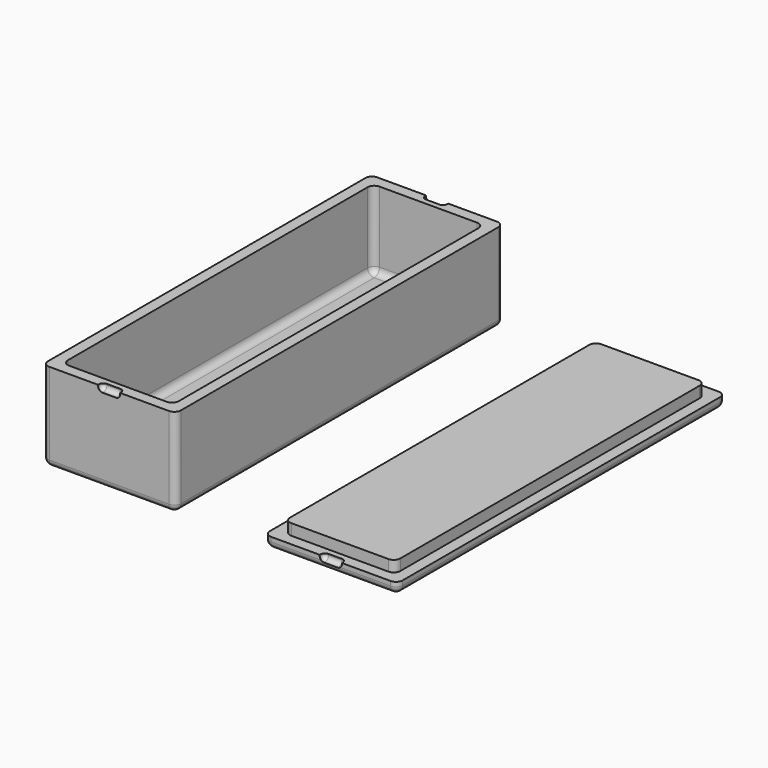
from build123d import *

# Parameters (mm, degrees)
SKETCH001_W     = 60
SKETCH001_H     = 185
PAD_DEPTH       = 40
SKETCH_W        = 50
SKETCH_H        = 175
POCKET_DEPTH    = 35
FILLET_R        = 3
FILLET001_R     = 3
SKETCH002_W     = 10
SKETCH002_H     = 5
POCKET001_DEPTH = 2.5
FILLET002_R     = 2
SKETCH003_W     = 10
SKETCH003_H     = 5
POCKET002_DEPTH = 2.5
FILLET003_R     = 2
SKETCH004_W     = 60
SKETCH004_H     = 185
PAD001_DEPTH    = 5
SKETCH005_W     = 49.8
SKETCH005_H     = 174.8
PAD002_DEPTH    = 5
FILLET004_R     = 3
FILLET005_R     = 3
SKETCH006_W     = 10
SKETCH006_H     = 5
POCKET003_DEPTH = 2.5
FILLET006_R     = 2
SKETCH007_W     = 10
SKETCH007_H     = 5
POCKET004_DEPTH = 2.5
FILLET007_R     = 2


with BuildPart() as box:
    # Sketch001 → Pad (new body)
    with BuildSketch(Plane.XY):
        Rectangle(SKETCH001_W, SKETCH001_H)
    extrude(amount=PAD_DEPTH)

    # Sketch (on Face6 of Pad) → Pocket (cut)
    with BuildSketch(Plane.XY.offset(40)):
        Rectangle(SKETCH_W, SKETCH_H)
    extrude(amount=-POCKET_DEPTH, mode=Mode.SUBTRACT)

    # Fillet
    fillet_edges = [box.edges().sort_by_distance(p)[0] for p in [
        (30, -92.5, 20),
        (30, 92.5, 20),
        (30, 0, 0),
        (0, 92.5, 0),
        (-30, 92.5, 20),
        (-30, 0, 0),
        (-30, -92.5, 20),
        (0, -92.5, 0),
    ]]
    fillet(fillet_edges, radius=FILLET_R)

    # Fillet001
    fillet001_edges = [box.edges().sort_by_distance(p)[0] for p in [
        (0, 87.5, 5),
        (-25, 0, 5),
        (0, -87.5, 5),
        (25, 0, 5),
        (-25, 87.5, 22.5),
        (25, 87.5, 22.5),
        (-25, -87.5, 22.5),
        (25, -87.5, 22.5),
    ]]
    fillet(fillet001_edges, radius=FILLET001_R)

    # Sketch002 (on Face14 of Fillet001) → Pocket001 (cut)
    with BuildSketch(Plane.XZ.offset(92.5)):
        with Locations((0, 40)):
            Rectangle(SKETCH002_W, SKETCH002_H)
    extrude(amount=-POCKET001_DEPTH, mode=Mode.SUBTRACT)

    # Fillet002
    fillet002_edges = [box.edges().sort_by_distance(p)[0] for p in [
        (-5, -90, 38.75),
        (-5, -91.25, 37.5),
        (0, -90, 37.5),
        (5, -90, 38.75),
        (5, -91.25, 37.5),
    ]]
    fillet(fillet002_edges, radius=FILLET002_R)

    # Sketch003 (on Face11 of Fillet002) → Pocket002 (cut)
    with BuildSketch(Plane(origin=(0, 92.5, 0), x_dir=(-1, 0, 0), z_dir=(0, 1, 0))):
        with Locations((0, 40)):
            Rectangle(SKETCH003_W, SKETCH003_H)
    extrude(amount=-POCKET002_DEPTH, mode=Mode.SUBTRACT)

    # Fillet003
    fillet003_edges = [box.edges().sort_by_distance(p)[0] for p in [
        (5, 91.25, 37.5),
        (5, 90, 38.75),
        (0, 90, 37.5),
        (-5, 90, 38.75),
        (-5, 91.25, 37.5),
    ]]
    fillet(fillet003_edges, radius=FILLET003_R)


with BuildPart() as lid:
    # Sketch004 → Pad001 (new body)
    with BuildSketch(Plane.XY):
        with Locations((100, 0)):
            Rectangle(SKETCH004_W, SKETCH004_H)
    extrude(amount=PAD001_DEPTH)

    # Sketch005 (on Face6 of Pad001) → Pad002 (join)
    with BuildSketch(Plane.XY.offset(5)):
        with Locations((100, 0)):
            Rectangle(SKETCH005_W, SKETCH005_H)
    extrude(amount=PAD002_DEPTH)

    # Fillet004
    fillet004_edges = [lid.edges().sort_by_distance(p)[0] for p in [
        (75.1, -87.4, 7.5),
        (124.9, -87.4, 7.5),
        (124.9, 87.4, 7.5),
        (75.1, 87.4, 7.5),
    ]]
    fillet(fillet004_edges, radius=FILLET004_R)

    # Fillet005
    fillet005_edges = [lid.edges().sort_by_distance(p)[0] for p in [
        (130, 92.5, 2.5),
        (70, 92.5, 2.5),
        (70, -92.5, 2.5),
        (130, -92.5, 2.5),
        (100, -92.5, 0),
        (70, 0, 0),
        (130, 0, 0),
        (100, 92.5, 0),
    ]]
    fillet(fillet005_edges, radius=FILLET005_R)

    # Sketch006 (on Face5 of Fillet005) → Pocket003 (cut)
    with BuildSketch(Plane(origin=(0, 92.5, 0), x_dir=(-1, 0, 0), z_dir=(0, 1, 0))):
        with Locations((-100, 5)):
            Rectangle(SKETCH006_W, SKETCH006_H)
    extrude(amount=-POCKET003_DEPTH, mode=Mode.SUBTRACT)

    # Fillet006
    fillet006_edges = [lid.edges().sort_by_distance(p)[0] for p in [
        (105, 91.22902, 2.5),
        (100, 90, 2.5),
        (105, 90, 3.75),
        (95, 90, 3.75),
        (95, 91.22902, 2.5),
    ]]
    fillet(fillet006_edges, radius=FILLET006_R)

    # Sketch007 (on Face12 of Fillet006) → Pocket004 (cut)
    with BuildSketch(Plane.XZ.offset(92.5)):
        with Locations((100, 5)):
            Rectangle(SKETCH007_W, SKETCH007_H)
    extrude(amount=-POCKET004_DEPTH, mode=Mode.SUBTRACT)

    # Fillet007
    fillet007_edges = [lid.edges().sort_by_distance(p)[0] for p in [
        (95, -90, 3.75),
        (95, -91.22902, 2.5),
        (100, -90, 2.5),
        (105, -90, 3.75),
        (105, -91.22902, 2.5),
    ]]
    fillet(fillet007_edges, radius=FILLET007_R)


solid = Compound([box.part, lid.part])
